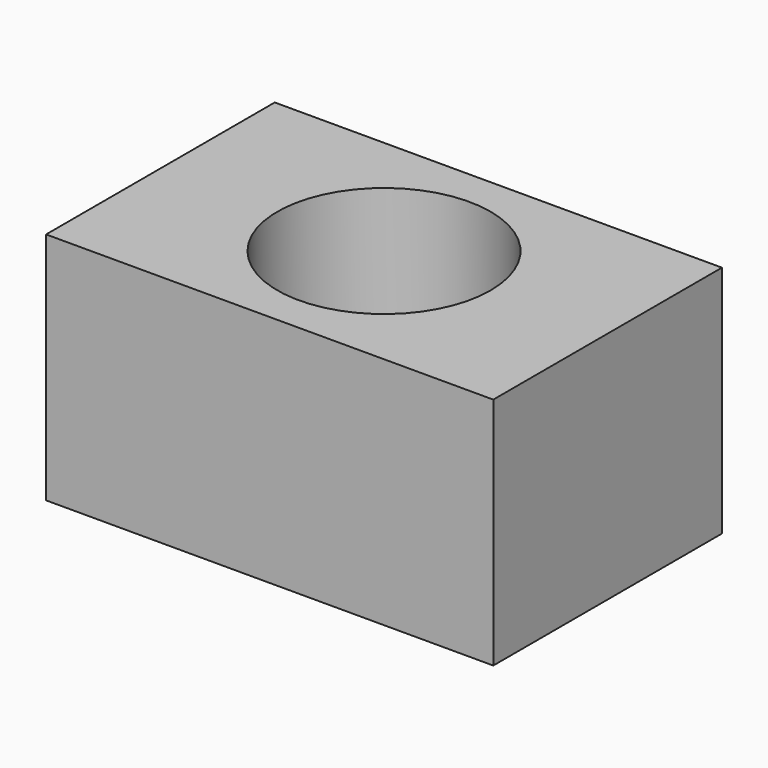
from build123d import *

# Parameters (mm, degrees)
F0_W     = 183.871217
F0_H     = 117.516338
F0_R     = 43.838553
F1_DEPTH = 96.266


with BuildPart() as f1:
    # F0 (on Top) → F1 (new body)
    with BuildSketch(Plane.XY):
        with Locations((1.095031, 2.847072)):
            Rectangle(F0_W, F0_H)
        with Locations((1.09503, 2.847072)):
            Circle(F0_R, mode=Mode.SUBTRACT)
    extrude(amount=-F1_DEPTH)


solid = f1.part
